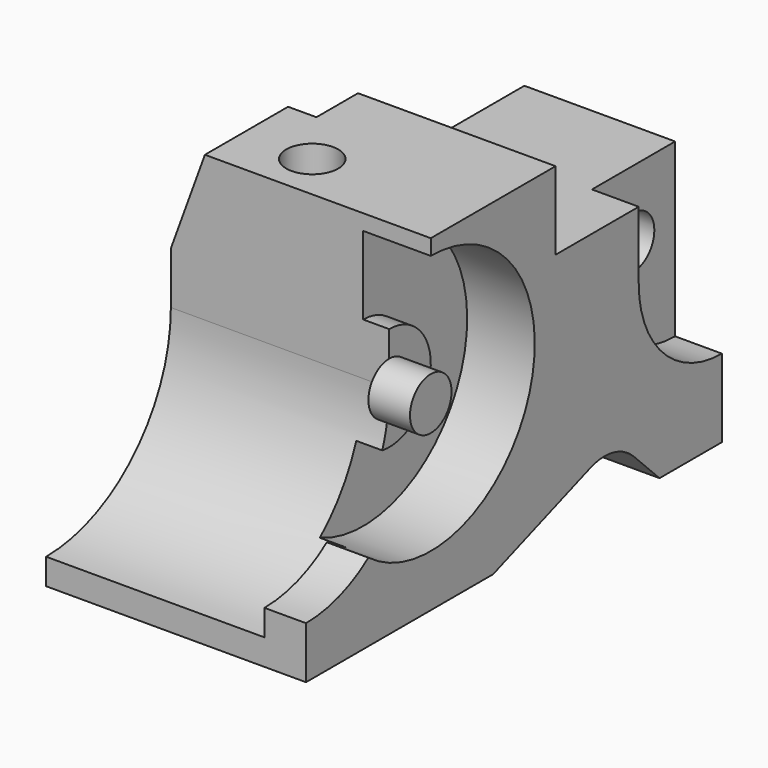
from build123d import *

# Parameters (mm, degrees)
F0_W      = 100
F0_H      = 63
F1_DEPTH  = 50
F2_W      = 40
F2_H      = 15
F3_DEPTH  = 50.001
F5_DEPTH  = 9
F7_DEPTH  = 50.001
F8_R      = 25
F9_DEPTH  = 13
F10_R     = 10
F11_DEPTH = 5
F12_R     = 5
F13_DEPTH = 8
F15_DEPTH = 50.001
F17_DEPTH = 42
F18_R     = 5
F19_DEPTH = 41.001
F20_W     = 12
F20_H     = 50
F21_DEPTH = 63.001
F22_R     = 5
F23_DEPTH = 63.001
F25_DEPTH = 50.001
F26_W     = 5
F26_H     = 4
F27_DEPTH = 50.001


with BuildPart() as f1:
    # F0 (on Right) → F1 (new body)
    with BuildSketch(Plane.YZ):
        with Locations((50, 31.5)):
            Rectangle(F0_W, F0_H)
    extrude(amount=F1_DEPTH)

    # F2 (on face) → F3 (cut, through all)
    with BuildSketch(Plane.YZ.offset(50)):
        with Locations((80, 55.5)):
            Rectangle(F2_W, F2_H)
    extrude(amount=-F3_DEPTH, mode=Mode.SUBTRACT)

    # F4 (on face) → F5 (cut)
    with BuildSketch(Plane.YZ.offset(50)):
        with BuildLine():
            Line((100, 48), (80, 48))
            Line((80, 48), (80, 35))
            ThreePointArc((80, 35), (85.857864, 20.857864), (100, 15))
            Line((100, 15), (100, 48))
        make_face()
    extrude(amount=-F5_DEPTH, mode=Mode.SUBTRACT)

    # F6 (on face) → F7 (cut, through all)
    with BuildSketch(Plane.YZ.offset(50)):
        with BuildLine():
            Line((68.339651, 8.494938), (45, 0))
            Line((45, 0), (85, 0))
            Line((85, 0), (78.83092, 6.16908))
            ThreePointArc((78.83092, 6.16908), (73.924249, 8.860972), (68.339651, 8.494938))
        make_face()
    extrude(amount=-F7_DEPTH, mode=Mode.SUBTRACT)

    # F8 (on face) → F9 (cut)
    with BuildSketch(Plane.YZ.offset(50)):
        with Locations((30, 35)):
            Circle(F8_R)
    extrude(amount=-F9_DEPTH, mode=Mode.SUBTRACT)

    # F10 (on face) → F11 (join)
    with BuildSketch(Plane.YZ.offset(37)):
        with Locations((30, 35)):
            Circle(F10_R)
    extrude(amount=F11_DEPTH)

    # F12 (on face) → F13 (join)
    with BuildSketch(Plane.YZ.offset(42)):
        with Locations((30, 35)):
            Circle(F12_R)
    extrude(amount=F13_DEPTH)

    # F14 (on face) → F15 (cut, through all)
    with BuildSketch(Plane.YZ.offset(50)):
        with BuildLine():
            ThreePointArc((0, 10), (17.67767, 17.32233), (25, 35))
            Line((25, 35), (25, 63))
            Line((25, 63), (0, 63))
            Line((0, 63), (0, 10))
        make_face()
    extrude(amount=-F15_DEPTH, mode=Mode.SUBTRACT)

    # F16 (on face) → F17 (cut)
    with BuildSketch(Plane(origin=(0, 0, 0), x_dir=(0, -1, 0), z_dir=(-1, 0, 0))):
        with BuildLine():
            Line((-30, 63), (-30, 35))
            ThreePointArc((-30, 35), (-21.213203, 13.786797), (0, 5))
            Line((0, 5), (0, 63))
            Line((0, 63), (-30, 63))
        make_face()
    extrude(amount=-F17_DEPTH, mode=Mode.SUBTRACT)

    # F18 (on face) → F19 (cut, through all)
    with BuildSketch(Plane.YZ.offset(41)):
        with Locations((90, 35)):
            Circle(F18_R)
    extrude(amount=-F19_DEPTH, mode=Mode.SUBTRACT)

    # F20 (on face) → F21 (cut, through all)
    with BuildSketch(Plane.XY.offset(63)):
        with Locations((6, 75)):
            Rectangle(F20_W, F20_H)
    extrude(amount=-F21_DEPTH, mode=Mode.SUBTRACT)

    # F22 (on face) → F23 (cut, through all)
    with BuildSketch(Plane.XY.offset(63)):
        with Locations((20, 39)):
            Circle(F22_R)
    extrude(amount=-F23_DEPTH, mode=Mode.SUBTRACT)

    # F24 (on face) → F25 (cut, through all)
    with BuildSketch(Plane(origin=(0, 50, 0), x_dir=(-1, 0, 0), z_dir=(0, 1, 0))):
        Polygon((0, 45), (0, 63), (-6.551464, 63), align=None)
    extrude(amount=-F25_DEPTH, mode=Mode.SUBTRACT)

    # F26 (on face) → F27 (cut, through all)
    with BuildSketch(Plane.YZ.offset(50)):
        with Locations((27.5, 61)):
            Rectangle(F26_W, F26_H)
    extrude(amount=-F27_DEPTH, mode=Mode.SUBTRACT)


solid = f1.part
